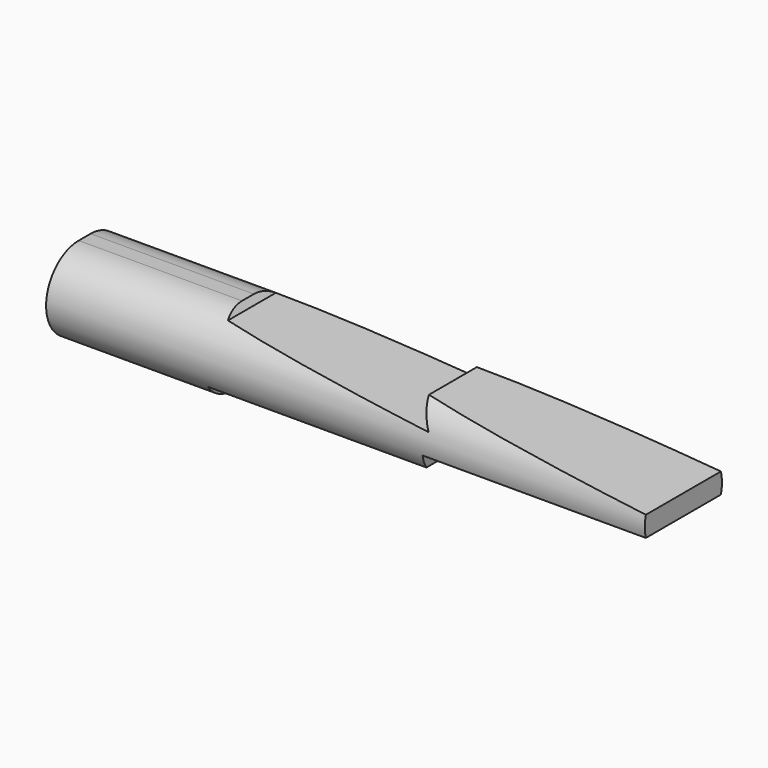
from build123d import *

# Parameters (mm, degrees)
F1_DEPTH      = 139.7
F1_DEPTH_BACK = 139.7
F3_DEPTH      = 22.501
F3_DEPTH_BACK = 22.501
F5_DEPTH      = 22.501
F5_DEPTH_BACK = 22.501


with BuildPart() as f1:
    # F0 (on Right) → F1 (new body, two sides)
    with BuildSketch(Plane.YZ) as f1_sk:
        with BuildLine():
            ThreePointArc((-3.45, 19.05), (-22.5, 0), (-3.45, -19.05))
            Line((-3.45, -19.05), (3.45, -19.05))
            ThreePointArc((3.45, -19.05), (22.5, 0), (3.45, 19.05))
            Line((3.45, 19.05), (-3.45, 19.05))
        make_face()
    extrude(amount=F1_DEPTH)
    extrude(f1_sk.sketch, amount=-F1_DEPTH_BACK)

    # F2 (on Front) → F3 (cut, two sides)
    with BuildSketch(Plane.XZ) as f3_sk:
        Polygon((139.7, 19.05), (-63.5, 19.05), (-61.6669128953, 15.875), (38.1, 5.5668172272), (32.1485679013, 15.875), (139.7, 4.7625), align=None)
    extrude(amount=-F3_DEPTH, mode=Mode.SUBTRACT)
    extrude(f3_sk.sketch, amount=F3_DEPTH_BACK, mode=Mode.SUBTRACT)

    # F4 (on Front) → F5 (cut, two sides)
    with BuildSketch(Plane.XZ) as f5_sk:
        Polygon((139.7, -19.05), (139.7, -4.7625), (35.4805530134, -4.7625), (34.925, -11.1125), (-67.0630954944, -11.1125), (-67.7575367611, -19.05), align=None)
    extrude(amount=-F5_DEPTH, mode=Mode.SUBTRACT)
    extrude(f5_sk.sketch, amount=F5_DEPTH_BACK, mode=Mode.SUBTRACT)


solid = f1.part
